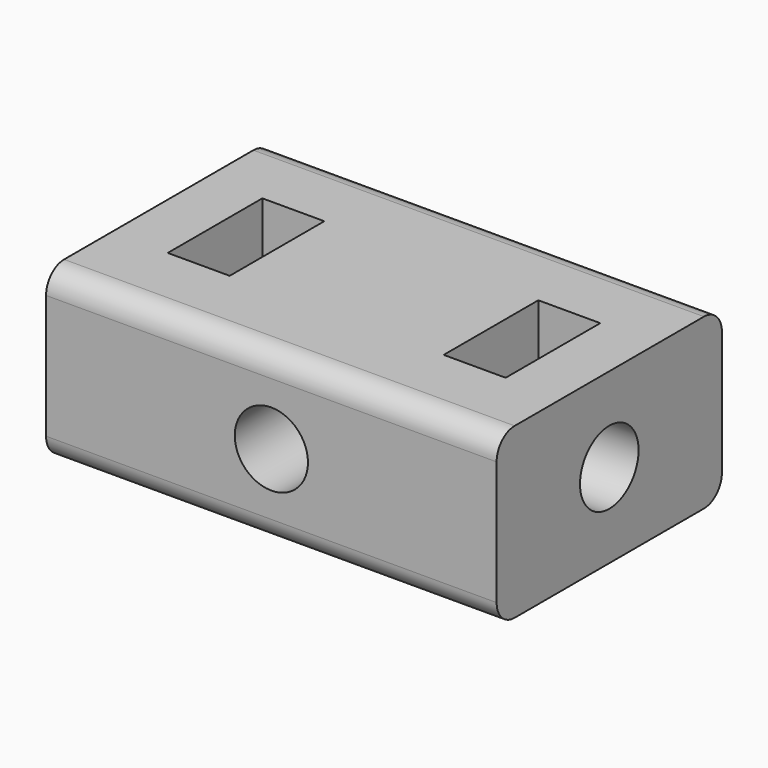
from build123d import *

# Parameters (mm, degrees)
SKETCH_W        = 40
SKETCH_H        = 25
PAD_DEPTH       = 15
SKETCH001_R     = 3.25
POCKET_DEPTH    = 40.001
SKETCH002_R     = 3.25
POCKET001_DEPTH = 25.001
SKETCH003_W     = 5.5
SKETCH003_H     = 10.5
POCKET002_DEPTH = 15.001
FILLET_R        = 2


with BuildPart() as part:
    # Sketch → Pad (new body)
    with BuildSketch(Plane.XY):
        with Locations((20, 12.5)):
            Rectangle(SKETCH_W, SKETCH_H)
    extrude(amount=PAD_DEPTH)

    # Sketch001 (on Face2 of Pad) → Pocket (cut, through all)
    with BuildSketch(Plane.YZ.offset(40)):
        with Locations((12.5, 7.5)):
            Circle(SKETCH001_R)
    extrude(amount=-POCKET_DEPTH, mode=Mode.SUBTRACT)

    # Sketch002 (on Face1 of Pocket) → Pocket001 (cut, through all)
    with BuildSketch(Plane.XZ):
        with Locations((20, 7.5)):
            Circle(SKETCH002_R)
    extrude(amount=-POCKET001_DEPTH, mode=Mode.SUBTRACT)

    # Sketch003 (on Face4 of Pocket001) → Pocket002 (cut, through all)
    with BuildSketch(Plane.XY.offset(15)):
        with Locations((7.75, 12.5)):
            Rectangle(SKETCH003_W, SKETCH003_H)
        with Locations((32.25, 12.5)):
            Rectangle(SKETCH003_W, SKETCH003_H)
    extrude(amount=-POCKET002_DEPTH, mode=Mode.SUBTRACT)

    # Fillet
    fillet_edges = [part.edges().sort_by_distance(p)[0] for p in [
        (20, 0, 15),
        (20, 0, 0),
        (20, 25, 15),
        (20, 25, 0),
    ]]
    fillet(fillet_edges, radius=FILLET_R)


solid = part.part
